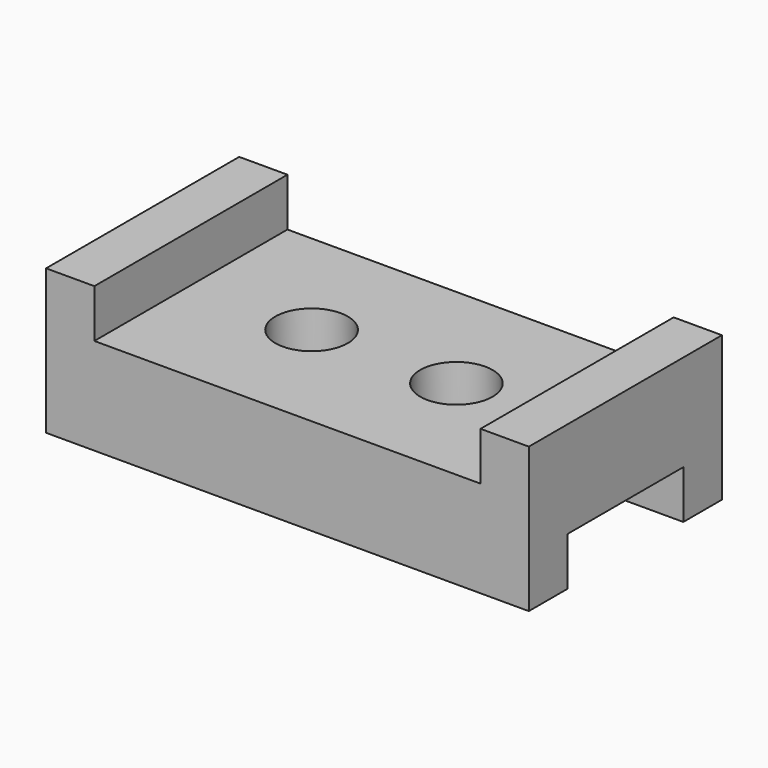
from build123d import *

# Parameters (mm, degrees)
F1_DEPTH = 63.5
F2_W     = 38.1
F2_H     = 12.7
F3_DEPTH = 254
F4_R     = 9.525
F5_DEPTH = 203.2


with BuildPart() as f1:
    # F0 (on Front) → F1 (new body)
    with BuildSketch(Plane.XZ):
        Polygon((-85.546099, -37.339878), (-85.546099, -75.439878), (41.453901, -75.439878), (41.453901, -37.339878), (28.753901, -37.339878), (28.753901, -50.039878), (-72.846099, -50.039878), (-72.846099, -37.339878), align=None)
    extrude(amount=F1_DEPTH)

    # F2 (on face) → F3 (cut)
    with BuildSketch(Plane.YZ.offset(41.453901)):
        with Locations((-31.75, -69.089878)):
            Rectangle(F2_W, F2_H)
    extrude(amount=-F3_DEPTH, mode=Mode.SUBTRACT)

    # F4 (on face) → F5 (cut)
    with BuildSketch(Plane.XY.offset(-37.339878)):
        with Locations((-41.096099, -31.75)):
            Circle(F4_R)
        with Locations((-2.996099, -31.75)):
            Circle(F4_R)
    extrude(amount=-F5_DEPTH, mode=Mode.SUBTRACT)


solid = f1.part
